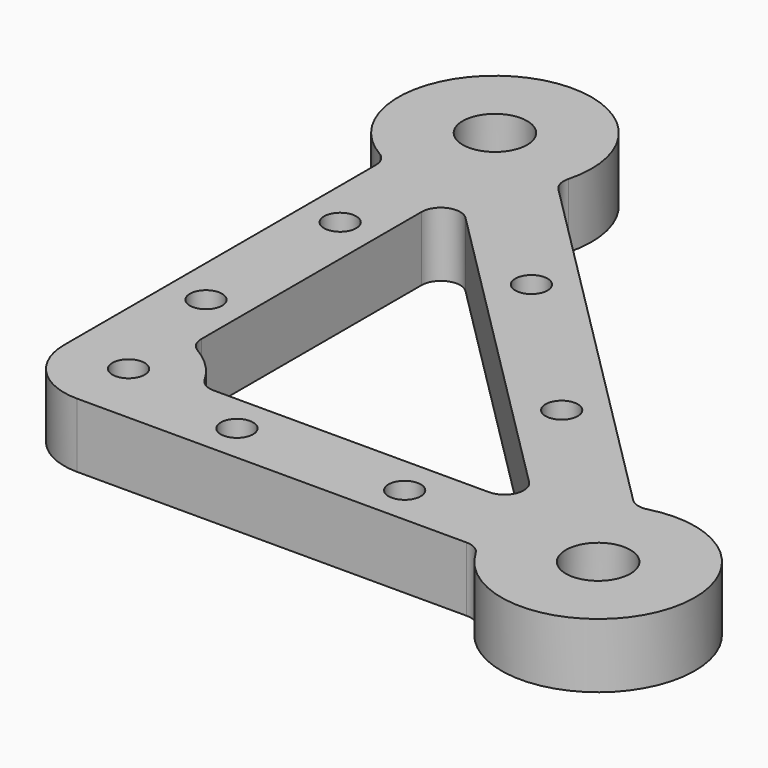
from build123d import *

# Parameters (mm, degrees)
F0_R     = 5
F1_DEPTH = 10
F2_R     = 10
F3_R     = 3
F5_D     = 5


with BuildPart() as f1:
    # F0 (on Top) → F1 (new body)
    with BuildSketch(Plane.XY):
        with BuildLine():
            Line((-6, -6), (66.252273, -6))
            ThreePointArc((66.252273, -6), (93.858193, -5.740251), (74.52153, 13.963752))
            Line((74.52153, 13.963752), (13.963752, 74.52153))
            ThreePointArc((13.963752, 74.52153), (-5.740251, 93.858193), (-6, 66.252273))
            Line((-6, 66.252273), (-6, -6))
        make_face()
        with BuildLine():
            Line((65.514719, 6), (13.747727, 6))
            ThreePointArc((13.747727, 6), (10.606602, 10.606602), (6, 13.747727))
            Line((6, 13.747727), (6, 65.514719))
            Line((6, 65.514719), (65.514719, 6))
        make_face(mode=Mode.SUBTRACT)
        with Locations((80, 0)):
            Circle(F0_R, mode=Mode.SUBTRACT)
        with Locations((0, 80)):
            Circle(F0_R, mode=Mode.SUBTRACT)
    extrude(amount=F1_DEPTH)

    # F2
    f2_edges = [f1.edges().sort_by_distance(p)[0] for p in [
        (-6, -6, 5),
    ]]
    fillet(f2_edges, radius=F2_R)

    # F3
    f3_edges = [f1.edges().sort_by_distance(p)[0] for p in [
        (13.963752, 74.52153, 5),
        (74.52153, 13.963752, 5),
        (66.252273, -6, 5),
        (-6, 66.252273, 5),
        (65.514719, 6, 5),
        (6, 65.514719, 5),
        (6, 13.747727, 5),
        (13.747727, 6, 5),
    ]]
    fillet(f3_edges, radius=F3_R)

    # F5 (through all)
    with Locations(Plane.XY.offset(10)):
        with Locations((0, 50), (0, 24), (28.284271, 51.715729), (51.715729, 28.284271), (50, 0), (24, 0), (4, 4)):
            Hole(F5_D / 2)


solid = f1.part
